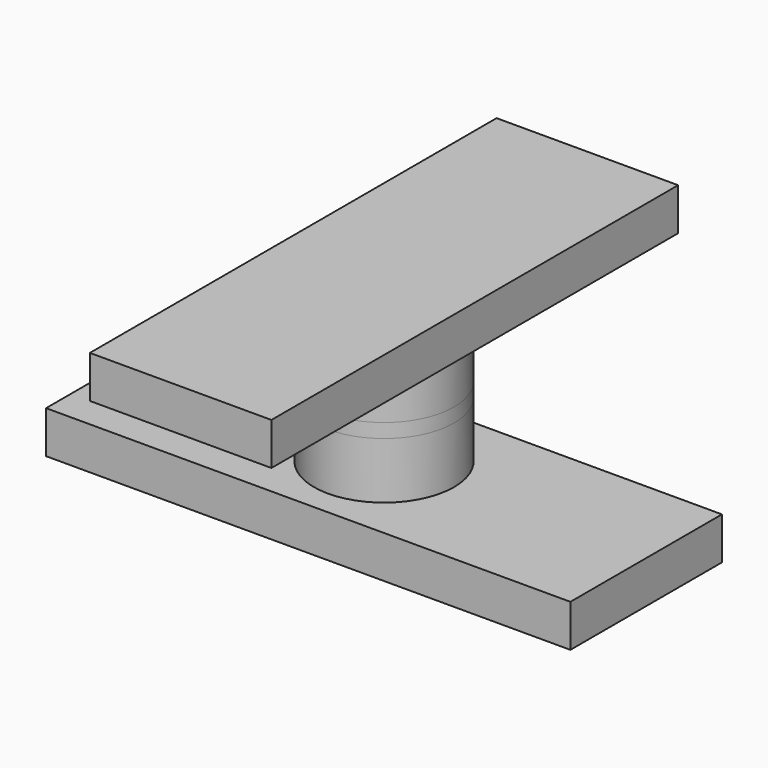
from build123d import *

# Parameters (mm, degrees)
F0_W     = 188.8861060143
F0_H     = 68.2425498962
F1_DEPTH = 15.24
F2_R     = 25.231639978
F3_DEPTH = 20.32
F4_DEPTH = 5.08
F5_DEPTH = 20.32
F6_W     = 65.4039755464
F6_H     = 183.1498295069
F7_DEPTH = 15.24


with BuildPart() as f1:
    # F0 (on Top) → F1 (new body)
    with BuildSketch(Plane.XY):
        Rectangle(F0_W, F0_H)
    extrude(amount=F1_DEPTH)


with BuildPart() as f3:
    # F2 (on face) → F3 (new body)
    with BuildSketch(Plane.XY.offset(15.24)):
        Circle(F2_R)
    extrude(amount=F3_DEPTH)


with BuildPart() as f4:
    # F4 (new): a face of the model
    f4_faces = [f3.part.faces().sort_by_distance(p)[0] for p in [
        (0, 0, 35.56),
    ]]
    extrude(f4_faces, amount=F4_DEPTH)


with BuildPart() as f5:
    # F5 (new): a face of the model
    f5_faces = [f4.part.faces().sort_by_distance(p)[0] for p in [
        (0, 0, 40.64),
    ]]
    extrude(f5_faces, amount=F5_DEPTH)


with BuildPart() as f7:
    # F6 (on face) → F7 (new body)
    with BuildSketch(Plane.XY.offset(60.96)):
        Rectangle(F6_W, F6_H)
    extrude(amount=F7_DEPTH)


solid = Compound([f1.part, f3.part, f4.part, f5.part, f7.part])
